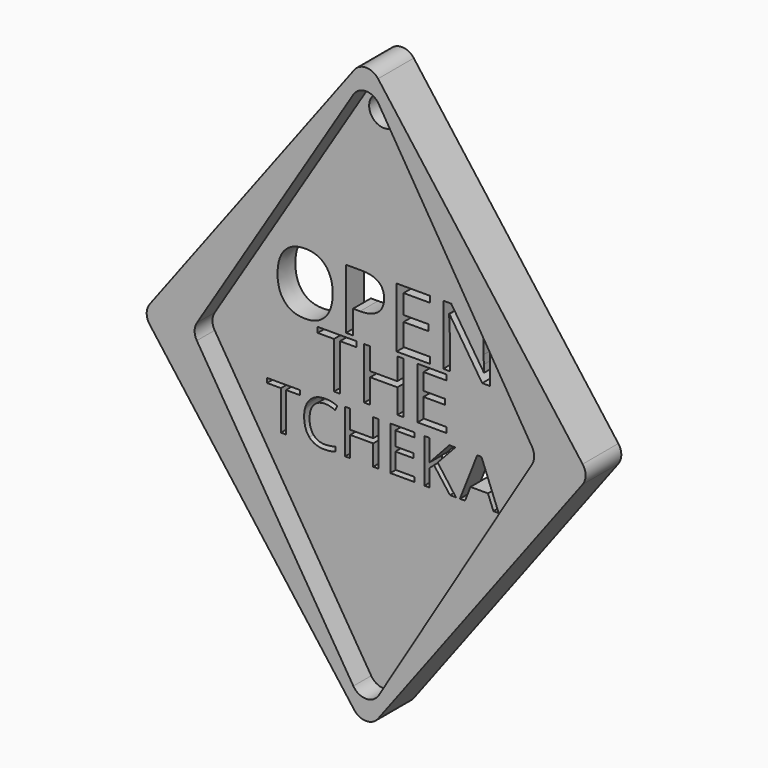
from build123d import *

# Parameters (mm, degrees)
F1_DEPTH = 3
F0_R     = 1
F2_DEPTH = 1.5


with BuildPart() as f1:
    # F0 (on Front) → F1 (new body)
    with BuildSketch(Plane.XZ):
        with BuildLine():
            ThreePointArc((0.8, 18.9333333333), (0, 19.3333333333), (-0.8, 18.9333333333))
            Line((-0.8, 18.9333333333), (-14.55, 0.6))
            ThreePointArc((-14.55, 0.6), (-14.75, 0), (-14.55, -0.6))
            Line((-14.55, -0.6), (-0.8, -18.9333333333))
            ThreePointArc((-0.8, -18.9333333333), (0, -19.3333333333), (0.8, -18.9333333333))
            Line((0.8, -18.9333333333), (14.55, -0.6))
            ThreePointArc((14.55, -0.6), (14.75, 0), (14.55, 0.6))
            Line((14.55, 0.6), (0.8, 18.9333333333))
        make_face()
        with BuildLine():
            Line((0.8453734199, 17.4519878154), (11.1478983264, 0.5185079962))
            ThreePointArc((11.1478983264, 0.5185079962), (11.293591415, -0.000183137), (11.1490177047, -0.5191873856))
            Line((11.1490177047, -0.5191873856), (0.8464809138, -17.5352529372))
            ThreePointArc((0.8464809138, -17.5352529372), (-0.0042763865, -18.0173165067), (-0.8594974934, -17.5432172265))
            Line((-0.8594974934, -17.5432172265), (-11.3803805784, -0.5271710528))
            ThreePointArc((-11.3803805784, -0.5271710528), (-11.5298272862, -0.0001922108), (-11.3792331534, 0.5264598808))
            Line((-11.3792331534, 0.5264598808), (-0.8583381839, 17.4599590779))
            ThreePointArc((-0.8583381839, 17.4599590779), (-0.0042541981, 17.9322070218), (0.8453734199, 17.4519878154))
        make_face(mode=Mode.SUBTRACT)
    extrude(amount=F1_DEPTH)


with BuildPart() as f2:
    # F0 (on Front) → F2 (new body)
    with BuildSketch(Plane.XZ):
        with BuildLine():
            ThreePointArc((11.1490177047, -0.5191873856), (11.293591415, -0.000183137), (11.1478983264, 0.5185079962))
            Line((11.1478983264, 0.5185079962), (0.8453734199, 17.4519878154))
            ThreePointArc((0.8453734199, 17.4519878154), (-0.0042541981, 17.9322070218), (-0.8583381839, 17.4599590779))
            Line((-0.8583381839, 17.4599590779), (-11.3792331534, 0.5264598808))
            ThreePointArc((-11.3792331534, 0.5264598808), (-11.5298272862, -0.0001922108), (-11.3803805784, -0.5271710528))
            Line((-11.3803805784, -0.5271710528), (-0.8594974934, -17.5432172265))
            ThreePointArc((-0.8594974934, -17.5432172265), (-0.0042763865, -18.0173165067), (0.8464809138, -17.5352529372))
            Line((0.8464809138, -17.5352529372), (11.1490177047, -0.5191873856))
        make_face()
        Polygon((-6.5887271797, -2.4978920657), (-6.5887271797, -5.1341837056), (-6.9304091081, -5.1341837056), (-6.9304091081, -2.4978920657), (-7.8615084498, -2.4978920657), (-7.8615084498, -2.194174796), (-5.657627838, -2.194174796), (-5.657627838, -2.4978920657), align=None, mode=Mode.SUBTRACT)
        with BuildLine():
            add(Edge.make_bspline(
                [(-3.2883757467, -2.614359917), (-3.6223360497, -2.4579970006), (-3.9562963526, -2.4579970006)],
                knots=[0, 0, 0, 1, 1, 1], degree=2))
            add(Edge.make_bspline(
                [(-3.9562963526, -2.4579970006), (-4.4408283528, -2.4579970006), (-4.721380746, -2.7806965997)],
                knots=[0, 0, 0, 1, 1, 1], degree=2))
            add(Edge.make_bspline(
                [(-4.721380746, -2.7806965997), (-5.0019331392, -3.1033961988), (-5.0019331392, -3.6645009852)],
                knots=[0, 0, 0, 1, 1, 1], degree=2))
            add(Edge.make_bspline(
                [(-5.0019331392, -3.6645009852), (-5.0019331392, -4.2410490226), (-4.7313545123, -4.5560269962)],
                knots=[0, 0, 0, 1, 1, 1], degree=2))
            add(Edge.make_bspline(
                [(-4.7313545123, -4.5560269962), (-4.4607758853, -4.8710049698), (-3.9601571653, -4.8710049698)],
                knots=[0, 0, 0, 1, 1, 1], degree=2))
            add(Edge.make_bspline(
                [(-3.9601571653, -4.8710049698), (-3.6525790829, -4.8710049698), (-3.2581327135, -4.7603283376)],
                knots=[0, 0, 0, 1, 1, 1], degree=2))
            Line((-3.2581327135, -4.7603283376), (-3.2581327135, -5.0595413257))
            add(Edge.make_bspline(
                [(-3.2581327135, -5.0595413257), (-3.5637803896, -5.1747222395), (-4.0122781375, -5.1747222395)],
                knots=[0, 0, 0, 1, 1, 1], degree=2))
            add(Edge.make_bspline(
                [(-4.0122781375, -5.1747222395), (-4.6615381484, -5.1747222395), (-5.0144807806, -4.7802758701)],
                knots=[0, 0, 0, 1, 1, 1], degree=2))
            add(Edge.make_bspline(
                [(-5.0144807806, -4.7802758701), (-5.3674234129, -4.3858295008), (-5.3674234129, -3.6599967037)],
                knots=[0, 0, 0, 1, 1, 1], degree=2))
            add(Edge.make_bspline(
                [(-5.3674234129, -3.6599967037), (-5.3674234129, -3.2057077367), (-5.1975476519, -2.8640258082)],
                knots=[0, 0, 0, 1, 1, 1], degree=2))
            add(Edge.make_bspline(
                [(-5.1975476519, -2.8640258082), (-5.0276718909, -2.5223438798), (-4.7069026982, -2.3373466022)],
                knots=[0, 0, 0, 1, 1, 1], degree=2))
            add(Edge.make_bspline(
                [(-4.7069026982, -2.3373466022), (-4.3861335055, -2.1523493246), (-3.9517920711, -2.1523493246)],
                knots=[0, 0, 0, 1, 1, 1], degree=2))
            add(Edge.make_bspline(
                [(-3.9517920711, -2.1523493246), (-3.4897814786, -2.1523493246), (-3.1435952686, -2.320938148)],
                knots=[0, 0, 0, 1, 1, 1], degree=2))
            Line((-3.1435952686, -2.320938148), (-3.2883757467, -2.614359917))
        make_face(mode=Mode.SUBTRACT)
        Polygon((-0.3844010895, -2.194174796), (-0.3844010895, -5.1341837056), (-0.7260830179, -5.1341837056), (-0.7260830179, -3.7507258033), (-2.2749123997, -3.7507258033), (-2.2749123997, -5.1341837056), (-2.6165943281, -5.1341837056), (-2.6165943281, -2.194174796), (-2.2749123997, -2.194174796), (-2.2749123997, -3.4450781272), (-0.7260830179, -3.4450781272), (-0.7260830179, -2.194174796), align=None, mode=Mode.SUBTRACT)
        Polygon((2.0607803192, -4.8285360295), (2.0607803192, -5.1341837056), (0.4218653066, -5.1341837056), (0.4218653066, -2.194174796), (2.0607803192, -2.194174796), (2.0607803192, -2.4978920657), (0.763547235, -2.4978920657), (0.763547235, -3.4450781272), (1.9822771266, -3.4450781272), (1.9822771266, -3.7468649905), (0.763547235, -3.7468649905), (0.763547235, -4.8285360295), align=None, mode=Mode.SUBTRACT)
        Polygon((3.6089662322, -3.4714603477), (4.8354177493, -5.1341837056), (4.4332497544, -5.1341837056), (3.3618742161, -3.708256863), (3.0536526649, -3.9817310995), (3.0536526649, -5.1341837056), (2.7119707365, -5.1341837056), (2.7119707365, -2.194174796), (3.0536526649, -2.194174796), (3.0536526649, -3.6522750782), (4.3869200014, -2.194174796), (4.7910184026, -2.194174796), align=None, mode=Mode.SUBTRACT)
        Polygon((7.7084143291, -5.1340795131), (7.3545189298, -5.1340795131), (6.9883980531, -4.1991522128), (5.8102480965, -4.1991522128), (5.448631343, -5.1340795131), (5.1024572979, -5.1340795131), (6.2645210999, -2.1819484368), (6.5521415426, -2.1819484368), align=None, mode=Mode.SUBTRACT)
        with BuildLine():
            add(Edge.make_bspline(
                [(-3.9360888993, 5.7377023116), (-3.4483772342, 5.1864911169), (-3.4483772342, 4.2163594141)],
                knots=[0, 0, 0, 1, 1, 1], degree=2))
            add(Edge.make_bspline(
                [(-3.4483772342, 4.2163594141), (-3.4483772342, 3.2488735251), (-3.9378527752, 2.6945755477)],
                knots=[0, 0, 0, 1, 1, 1], degree=2))
            add(Edge.make_bspline(
                [(-3.9378527752, 2.6945755477), (-4.4273283161, 2.1402775703), (-5.2978010348, 2.1402775703)],
                knots=[0, 0, 0, 1, 1, 1], degree=2))
            add(Edge.make_bspline(
                [(-5.2978010348, 2.1402775703), (-6.1876763876, 2.1402775703), (-6.6714193321, 2.6848742307)],
                knots=[0, 0, 0, 1, 1, 1], degree=2))
            add(Edge.make_bspline(
                [(-6.6714193321, 2.6848742307), (-7.1551622766, 3.2294708911), (-7.1551622766, 4.2216510416)],
                knots=[0, 0, 0, 1, 1, 1], degree=2))
            add(Edge.make_bspline(
                [(-7.1551622766, 4.2216510416), (-7.1551622766, 5.2058937509), (-6.6700964252, 5.7474036286)],
                knots=[0, 0, 0, 1, 1, 1], degree=2))
            add(Edge.make_bspline(
                [(-6.6700964252, 5.7474036286), (-6.1850305738, 6.2889135063), (-5.2925094073, 6.2889135063)],
                knots=[0, 0, 0, 1, 1, 1], degree=2))
            add(Edge.make_bspline(
                [(-5.2925094073, 6.2889135063), (-4.4238005644, 6.2889135063), (-3.9360888993, 5.7377023116)],
                knots=[0, 0, 0, 1, 1, 1], degree=2))
        make_face(mode=Mode.SUBTRACT)
        Polygon((-2.9555808656, 1.5738532283), (-2.9555808656, -1.5370047823), (-3.3587699317, -1.5370047823), (-3.3587699317, 1.5738532283), (-4.4574791192, 1.5738532283), (-4.4574791192, 1.9322435093), (-1.8568716781, 1.9322435093), (-1.8568716781, 1.5738532283), align=None, mode=Mode.SUBTRACT)
        Polygon((1.2995444191, 1.9322435093), (1.2995444191, -1.5370047823), (0.8963553531, -1.5370047823), (0.8963553531, 0.0954933195), (-0.9312832194, 0.0954933195), (-0.9312832194, -1.5370047823), (-1.3344722855, -1.5370047823), (-1.3344722855, 1.9322435093), (-0.9312832194, 1.9322435093), (-0.9312832194, 0.4561615047), (0.8963553531, 0.4561615047), (0.8963553531, 1.9322435093), align=None, mode=Mode.SUBTRACT)
        with BuildLine():
            add(Edge.make_bspline(
                [(-1.5054680151, 6.2254139767), (0.0044096896, 6.2254139767), (0.0044096896, 5.0515546164)],
                knots=[0, 0, 0, 1, 1, 1], degree=2))
            add(Edge.make_bspline(
                [(0.0044096896, 5.0515546164), (0.0044096896, 4.4394897058), (-0.4131879116, 4.1100858958)],
                knots=[0, 0, 0, 1, 1, 1], degree=2))
            add(Edge.make_bspline(
                [(-0.4131879116, 4.1100858958), (-0.8307855127, 3.7806820858), (-1.6077728128, 3.7806820858)],
                knots=[0, 0, 0, 1, 1, 1], degree=2))
            Line((-1.6077728128, 3.7806820858), (-2.0822554092, 3.7806820858))
            Line((-2.0822554092, 3.7806820858), (-2.0822554092, 2.1958396587))
            Line((-2.0822554092, 2.1958396587), (-2.5505644403, 2.1958396587))
            Line((-2.5505644403, 2.1958396587), (-2.5505644403, 6.2254139767))
            Line((-2.5505644403, 6.2254139767), (-1.5054680151, 6.2254139767))
        make_face(mode=Mode.SUBTRACT)
        Polygon((4.1848899013, -1.176336597), (4.1848899013, -1.5370047823), (2.2509491268, -1.5370047823), (2.2509491268, 1.9322435093), (4.1848899013, 1.9322435093), (4.1848899013, 1.5738532283), (2.6541381929, 1.5738532283), (2.6541381929, 0.4561615047), (4.0922551253, 0.4561615047), (4.0922551253, 0.1000491281), (2.6541381929, 0.1000491281), (2.6541381929, -1.176336597), align=None, mode=Mode.SUBTRACT)
        Polygon((3.0938381938, 2.6147601667), (3.0938381938, 2.1958396587), (0.847542333, 2.1958396587), (0.847542333, 6.2254139767), (3.0938381938, 6.2254139767), (3.0938381938, 5.8091392824), (1.3158513641, 5.8091392824), (1.3158513641, 4.5109266766), (2.9862417686, 4.5109266766), (2.9862417686, 4.0972977961), (1.3158513641, 4.0972977961), (1.3158513641, 2.6147601667), align=None, mode=Mode.SUBTRACT)
        with BuildLine():
            Line((7.1339957667, 6.2254139767), (7.1339957667, 2.1958396587))
            Line((7.1339957667, 2.1958396587), (6.5995413923, 2.1958396587))
            Line((6.5995413923, 2.1958396587), (4.3973424271, 5.5771896117))
            Line((4.3973424271, 5.5771896117), (4.3752939793, 5.5771896117))
            add(Edge.make_bspline(
                [(4.3752939793, 5.5771896117), (4.4193908749, 4.9818815214), (4.4193908749, 4.4862324151)],
                knots=[0, 0, 0, 1, 1, 1], degree=2))
            Line((4.4193908749, 4.4862324151), (4.4193908749, 2.1958396587))
            Line((4.4193908749, 2.1958396587), (3.9863593603, 2.1958396587))
            Line((3.9863593603, 2.1958396587), (3.9863593603, 6.2254139767))
            Line((3.9863593603, 6.2254139767), (4.5155221072, 6.2254139767))
            Line((4.5155221072, 6.2254139767), (6.712429445, 2.8572930924))
            Line((6.712429445, 2.8572930924), (6.7344778928, 2.8572930924))
            add(Edge.make_bspline(
                [(6.7344778928, 2.8572930924), (6.7291862653, 2.931375877), (6.7097836312, 3.3353034405)],
                knots=[0, 0, 0, 1, 1, 1], degree=2))
            add(Edge.make_bspline(
                [(6.7097836312, 3.3353034405), (6.6903809972, 3.739231004), (6.6956726246, 3.9129727726)],
                knots=[0, 0, 0, 1, 1, 1], degree=2))
            Line((6.6956726246, 3.9129727726), (6.6956726246, 6.2254139767))
            Line((6.6956726246, 6.2254139767), (7.1339957667, 6.2254139767))
        make_face(mode=Mode.SUBTRACT)
        with Locations((0, 16.1415326285)):
            Circle(F0_R, mode=Mode.SUBTRACT)
    extrude(amount=F2_DEPTH)


solid = Compound([f1.part, f2.part])
